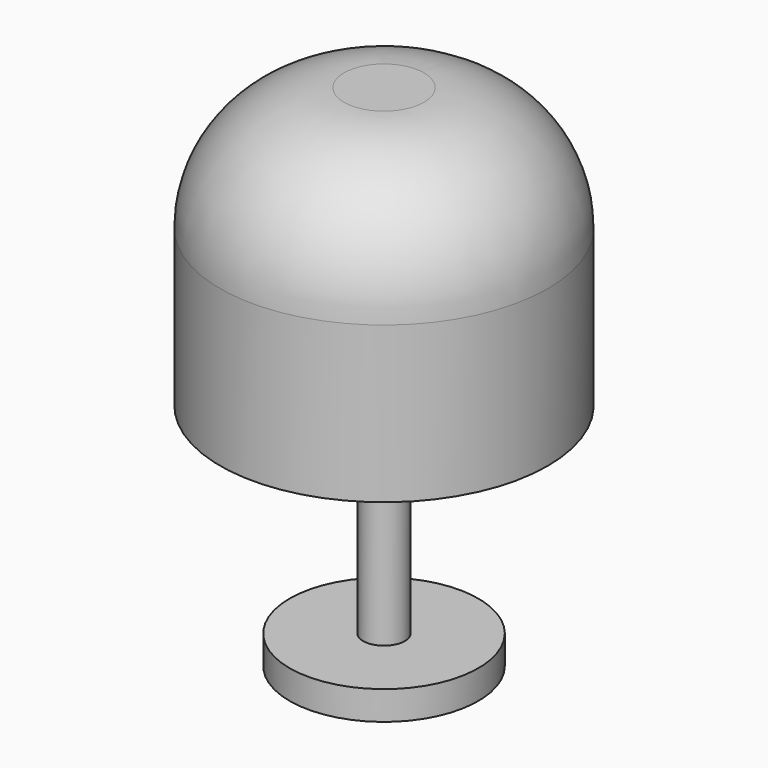
from build123d import *


with BuildPart() as f1:
    # F0 (on Front) → F1 (revolve)
    with BuildSketch(Plane.XZ):
        with BuildLine():
            Line((-29.032616, -77.086337), (0, -77.086337))
            Line((0, -77.086337), (0, 79.64943))
            Line((0, 79.64943), (-12.292725, 79.64943))
            ThreePointArc((-12.292725, 79.64943), (-39.233493, 68.490199), (-50.392725, 41.54943))
            Line((-50.392725, 41.54943), (-50.392725, -6.453492))
            Line((-50.392725, -6.453492), (-6.416031, -6.453492))
            Line((-6.416031, -6.453492), (-6.416031, -68.201698))
            Line((-6.416031, -68.201698), (-29.032616, -68.201698))
            Line((-29.032616, -68.201698), (-29.032616, -77.086337))
        make_face()
    revolve(axis=Axis((0, 0, 1.281547), (0, 0, -1)))


solid = f1.part
